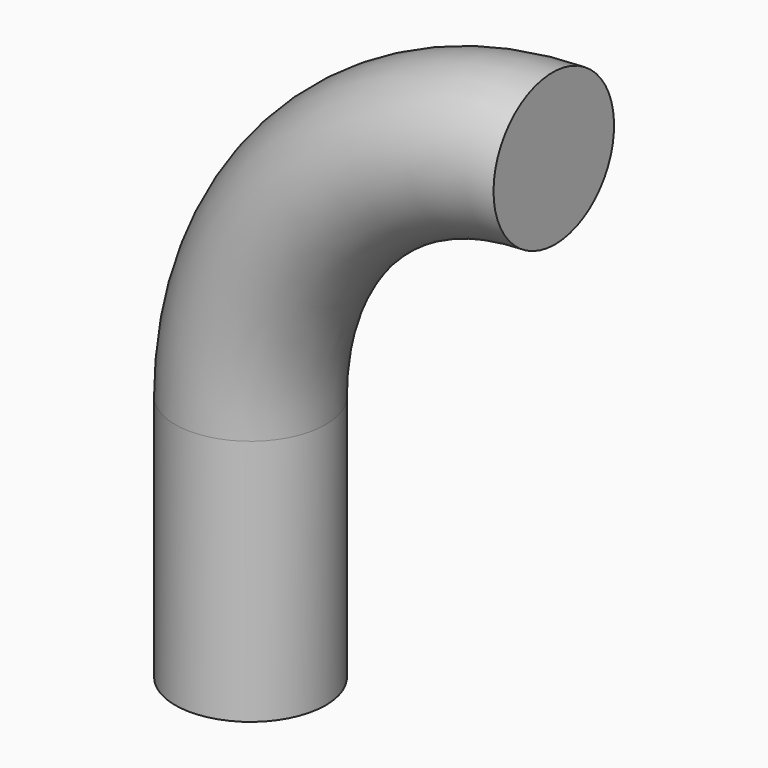
from build123d import *

# Parameters (mm, degrees)
F1_R = 10.329589


with BuildPart() as f2:
    # F2: sweep along a path in F0
    with BuildLine(Plane.XZ) as f2_path:
        Line((0, 0), (0, 33.884678))
        ThreePointArc((0, 33.884678), (12.142482, 63.554932), (41.602235, 76.199569))
    # F1 (on Top) → F2 (sweep)
    with BuildSketch(Plane.XY):
        Circle(F1_R)
    sweep(path=f2_path.line)


solid = f2.part
